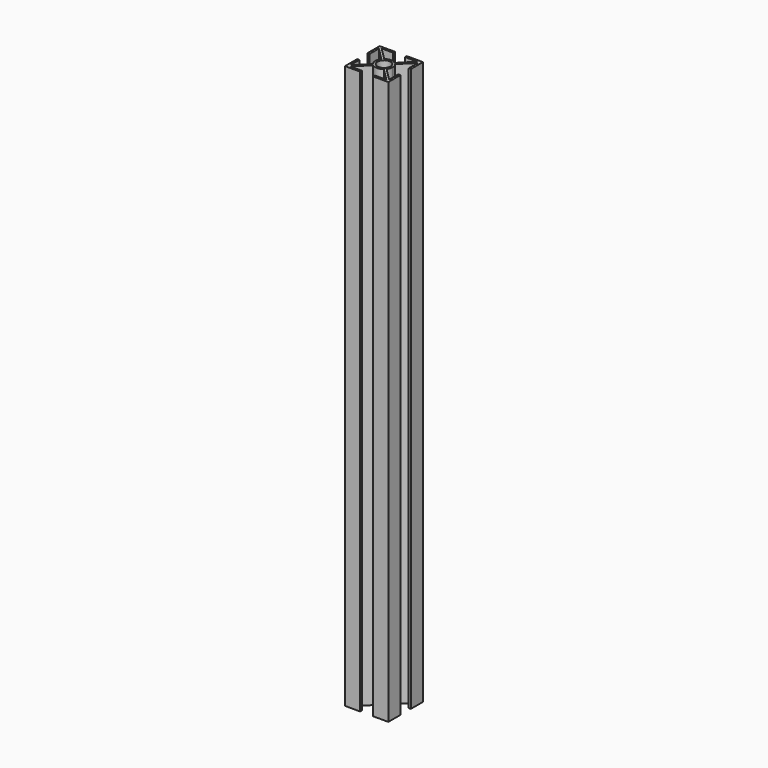
from build123d import *

# Parameters (mm, degrees)
F0_R     = 3
F1_DEPTH = 260


with BuildPart() as f1:
    # F0 (on Top) → F1 (new body)
    with BuildSketch(Plane.XY):
        Polygon((0, 20), (0, 13), (1, 13), (1, 18.292893), (1, 19), (1.707107, 19), (7, 19), (7, 20), align=None)
        with BuildLine():
            Line((1, 19), (1, 18.292893))
            Line((1, 18.292893), (6.840204, 12.45269))
            ThreePointArc((6.840204, 12.45269), (7.171573, 12.828427), (7.54731, 13.159796))
            Line((7.54731, 13.159796), (1.707107, 19))
            Line((1.707107, 19), (1, 19))
        make_face()
        Polygon((19, 13), (20, 13), (20, 20), (12.45269, 20), (12.45269, 19), (18.292893, 19), (19, 19), (19, 18.292893), align=None)
        with BuildLine():
            Line((13.159796, 12.45269), (19, 18.292893))
            Line((19, 18.292893), (19, 19))
            Line((19, 19), (18.292893, 19))
            Line((18.292893, 19), (12.45269, 13.159796))
            ThreePointArc((12.45269, 13.159796), (12.828427, 12.828427), (13.159796, 12.45269))
        make_face()
        Polygon((13, 1), (13, 0), (20, 0), (20, 7), (19, 7), (19, 1.707107), (19, 1), (18.292893, 1), align=None)
        with BuildLine():
            Line((12.45269, 6.840204), (18.292893, 1))
            Line((18.292893, 1), (19, 1))
            Line((19, 1), (19, 1.707107))
            Line((19, 1.707107), (13.159796, 7.54731))
            ThreePointArc((13.159796, 7.54731), (12.828427, 7.171573), (12.45269, 6.840204))
        make_face()
        Polygon((0, 7), (0, 0), (7, 0), (7, 1), (1.707107, 1), (1, 1), (1, 1.707107), (1, 7), align=None)
        with BuildLine():
            Line((1, 1), (1.707107, 1))
            Line((1.707107, 1), (7.54731, 6.840204))
            ThreePointArc((7.54731, 6.840204), (7.171573, 7.171573), (6.840204, 7.54731))
            Line((6.840204, 7.54731), (1, 1.707107))
            Line((1, 1.707107), (1, 1))
        make_face()
        with BuildLine():
            ThreePointArc((6.840204, 7.54731), (7.171573, 7.171573), (7.54731, 6.840204))
            ThreePointArc((7.54731, 6.840204), (10, 6), (12.45269, 6.840204))
            ThreePointArc((12.45269, 6.840204), (12.828427, 7.171573), (13.159796, 7.54731))
            ThreePointArc((13.159796, 7.54731), (13.784124, 8.703695), (14, 10))
            ThreePointArc((14, 10), (13.784124, 11.296305), (13.159796, 12.45269))
            ThreePointArc((13.159796, 12.45269), (12.828427, 12.828427), (12.45269, 13.159796))
            ThreePointArc((12.45269, 13.159796), (10, 14), (7.54731, 13.159796))
            ThreePointArc((7.54731, 13.159796), (7.171573, 12.828427), (6.840204, 12.45269))
            ThreePointArc((6.840204, 12.45269), (6, 10), (6.840204, 7.54731))
        make_face()
        with Locations((10, 10)):
            Circle(F0_R, mode=Mode.SUBTRACT)
    extrude(amount=F1_DEPTH)


solid = f1.part
